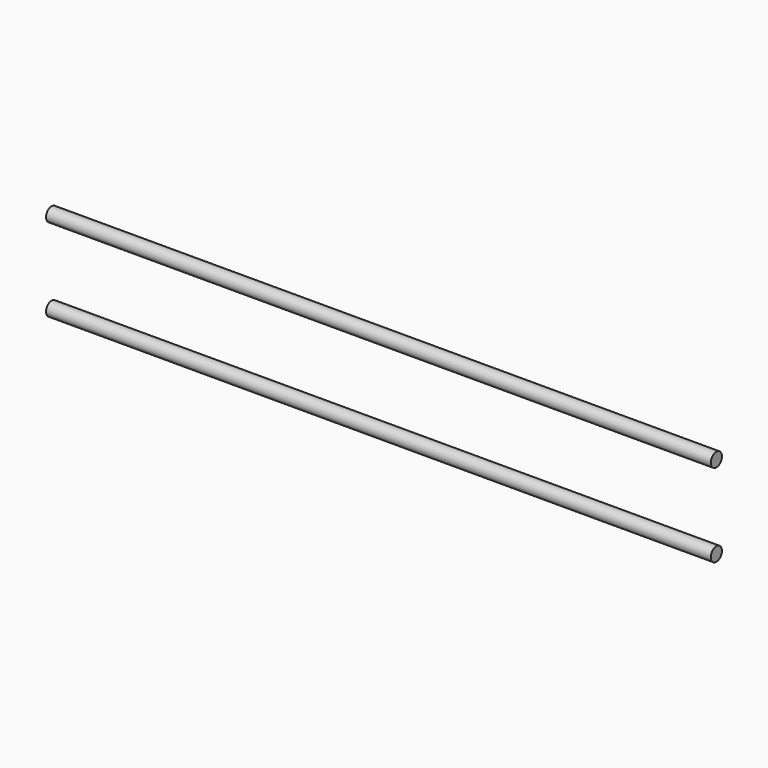
from build123d import *

# Parameters (mm, degrees)
F0_R     = 6.35
F1_DEPTH = 609.6


with BuildPart() as f1:
    # F0 (on Right) → F1 (new body)
    with BuildSketch(Plane.YZ):
        with Locations((0, 38.1)):
            Circle(F0_R)
        with Locations((0, -38.1)):
            Circle(F0_R)
    extrude(amount=F1_DEPTH)


solid = f1.part
